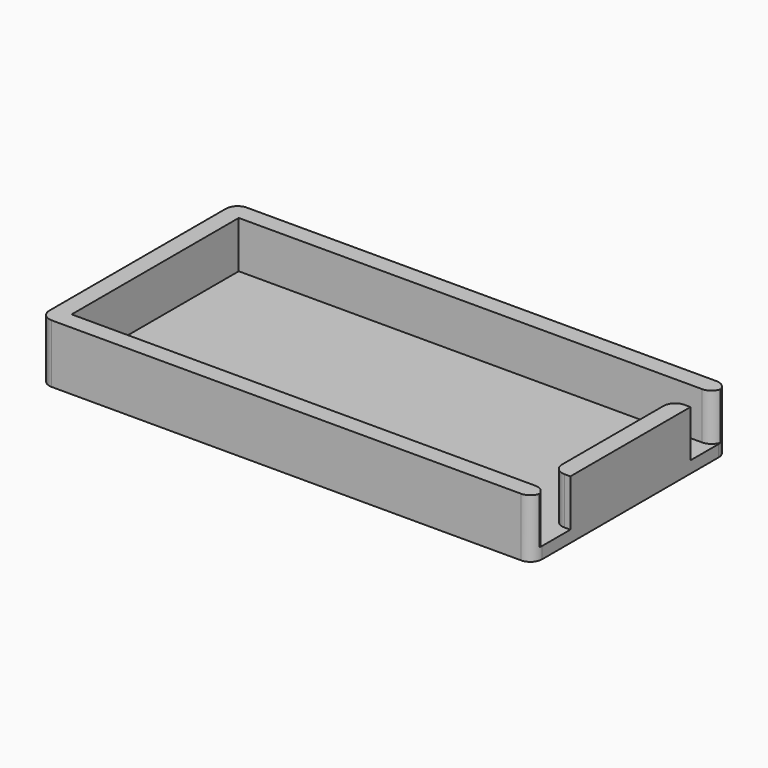
from build123d import *

# Parameters (mm, degrees)
F0_W     = 106.68
F0_H     = 52.832
F0_W_2   = 99.06
F0_H_2   = 45.212
F1_DEPTH = 12.7
F2_W     = 99.06
F2_H     = 45.212
F3_DEPTH = 2.54
F4_W     = 3.81
F4_H     = 6.35
F5_DEPTH = 10.16
F6_R     = 2.54


with BuildPart() as f1:
    # F0 (on Top) → F1 (new body)
    with BuildSketch(Plane.XY):
        Rectangle(F0_W, F0_H)
        Rectangle(F0_W_2, F0_H_2, mode=Mode.SUBTRACT)
    extrude(amount=F1_DEPTH)

    # F2 (on Top) → F3 (join)
    with BuildSketch(Plane.XY):
        Rectangle(F2_W, F2_H)
    extrude(amount=F3_DEPTH)

    # F4 (on face) → F5 (cut)
    with BuildSketch(Plane.XY.offset(12.7)):
        with Locations((51.435, 19.431)):
            Rectangle(F4_W, F4_H)
        with Locations((51.435, -19.431)):
            Rectangle(F4_W, F4_H)
    extrude(amount=-F5_DEPTH, mode=Mode.SUBTRACT)

    # F6 (call 1 of 8: OpenCascade refuses the feature's edges together)
    f6_edges = [f1.edges().sort_by_distance(p)[0] for p in [
        (49.53, 16.256, 7.62),
    ]]
    fillet(f6_edges, radius=F6_R)

    # F6#2 (call 2 of 8)
    f6_2_edges = [f1.edges().sort_by_distance(p)[0] for p in [
        (53.34, 22.606, 7.62),
    ]]
    fillet(f6_2_edges, radius=F6_R)

    # F6#3 (call 3 of 8)
    f6_3_edges = [f1.edges().sort_by_distance(p)[0] for p in [
        (49.53, -16.256, 7.62),
    ]]
    fillet(f6_3_edges, radius=F6_R)

    # F6#4 (call 4 of 8)
    f6_4_edges = [f1.edges().sort_by_distance(p)[0] for p in [
        (53.34, -22.606, 7.62),
    ]]
    fillet(f6_4_edges, radius=F6_R)

    # F6#5 (call 5 of 8)
    f6_5_edges = [f1.edges().sort_by_distance(p)[0] for p in [
        (53.34, 26.416, 6.35),
    ]]
    fillet(f6_5_edges, radius=F6_R)

    # F6#6 (call 6 of 8)
    f6_6_edges = [f1.edges().sort_by_distance(p)[0] for p in [
        (53.34, -26.416, 6.35),
    ]]
    fillet(f6_6_edges, radius=F6_R)

    # F6#7 (call 7 of 8)
    f6_7_edges = [f1.edges().sort_by_distance(p)[0] for p in [
        (-53.34, -26.416, 6.35),
    ]]
    fillet(f6_7_edges, radius=F6_R)

    # F6#8 (call 8 of 8)
    f6_8_edges = [f1.edges().sort_by_distance(p)[0] for p in [
        (-53.34, 26.416, 6.35),
    ]]
    fillet(f6_8_edges, radius=F6_R)


solid = f1.part
